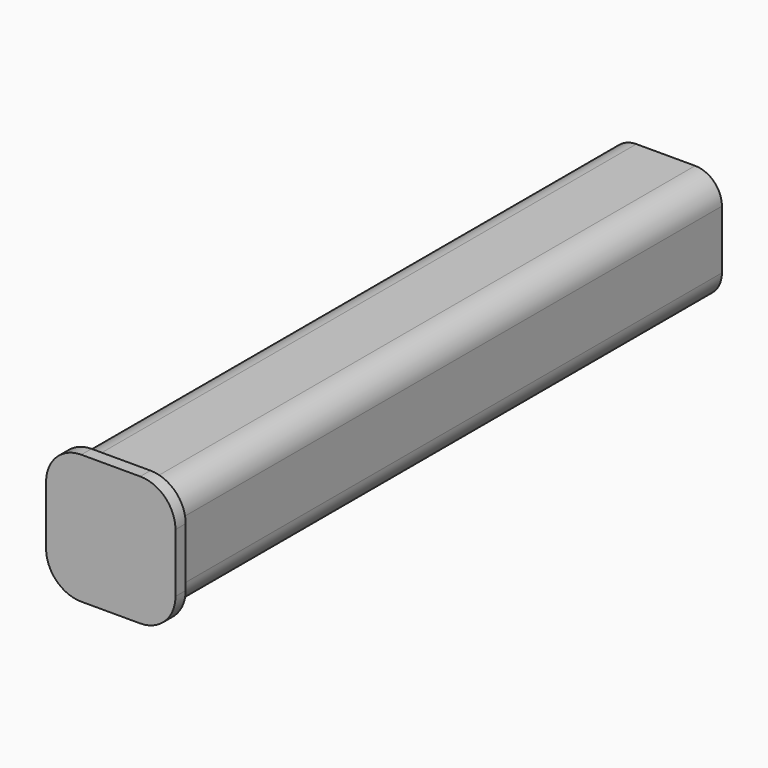
from build123d import *

# Parameters (mm, degrees)
F1_DEPTH = 101.6
F3_DEPTH = 1.905


with BuildPart() as f1:
    # F0 (on Front) → F1 (new body)
    with BuildSketch(Plane.XZ):
        with BuildLine():
            Line((-4.3815, -8.382), (4.3815, -8.382))
            ThreePointArc((4.3815, -8.382), (7.2102806781, -7.2102806781), (8.382, -4.3815))
            Line((8.382, -4.3815), (8.382, 4.3815))
            ThreePointArc((8.382, 4.3815), (7.2102806781, 7.2102806781), (4.3815, 8.382))
            Line((4.3815, 8.382), (-4.3815, 8.382))
            ThreePointArc((-4.3815, 8.382), (-7.2102806781, 7.2102806781), (-8.382, 4.3815))
            Line((-8.382, 4.3815), (-8.382, -4.3815))
            ThreePointArc((-8.382, -4.3815), (-7.2102806781, -7.2102806781), (-4.3815, -8.382))
        make_face()
        with BuildLine():
            Line((-4.572, 5.842), (4.572, 5.842))
            ThreePointArc((4.572, 5.842), (5.4700256121, 5.4700256121), (5.842, 4.572))
            Line((5.842, 4.572), (5.842, -4.572))
            ThreePointArc((5.842, -4.572), (5.4700256121, -5.4700256121), (4.572, -5.842))
            Line((4.572, -5.842), (-4.572, -5.842))
            ThreePointArc((-4.572, -5.842), (-5.4700256121, -5.4700256121), (-5.842, -4.572))
            Line((-5.842, -4.572), (-5.842, 4.572))
            ThreePointArc((-5.842, 4.572), (-5.4700256121, 5.4700256121), (-4.572, 5.842))
        make_face(mode=Mode.SUBTRACT)
    extrude(amount=F1_DEPTH)

    # F2 (on face) → F3 (join)
    with BuildSketch(Plane.XZ.offset(101.6)):
        with BuildLine():
            Line((-4.3942, -9.652), (4.3942, -9.652))
            ThreePointArc((4.3942, -9.652), (8.1120260341, -8.1120260341), (9.652, -4.3942))
            Line((9.652, -4.3942), (9.652, 4.3942))
            ThreePointArc((9.652, 4.3942), (8.1120260341, 8.1120260341), (4.3942, 9.652))
            Line((4.3942, 9.652), (-4.3942, 9.652))
            ThreePointArc((-4.3942, 9.652), (-8.1120260341, 8.1120260341), (-9.652, 4.3942))
            Line((-9.652, 4.3942), (-9.652, -4.3942))
            ThreePointArc((-9.652, -4.3942), (-8.1120260341, -8.1120260341), (-4.3942, -9.652))
        make_face()
        with BuildLine():
            Line((4.3815, -8.382), (-4.3815, -8.382))
            ThreePointArc((-4.3815, -8.382), (-7.2102806781, -7.2102806781), (-8.382, -4.3815))
            Line((-8.382, -4.3815), (-8.382, 4.3815))
            ThreePointArc((-8.382, 4.3815), (-7.2102806781, 7.2102806781), (-4.3815, 8.382))
            Line((-4.3815, 8.382), (4.3815, 8.382))
            ThreePointArc((4.3815, 8.382), (7.2102806781, 7.2102806781), (8.382, 4.3815))
            Line((8.382, 4.3815), (8.382, -4.3815))
            ThreePointArc((8.382, -4.3815), (7.2102806781, -7.2102806781), (4.3815, -8.382))
        make_face(mode=Mode.SUBTRACT)
        with BuildLine():
            ThreePointArc((-8.382, -4.3815), (-7.2102806781, -7.2102806781), (-4.3815, -8.382))
            Line((-4.3815, -8.382), (4.3815, -8.382))
            ThreePointArc((4.3815, -8.382), (7.2102806781, -7.2102806781), (8.382, -4.3815))
            Line((8.382, -4.3815), (8.382, 4.3815))
            ThreePointArc((8.382, 4.3815), (7.2102806781, 7.2102806781), (4.3815, 8.382))
            Line((4.3815, 8.382), (-4.3815, 8.382))
            ThreePointArc((-4.3815, 8.382), (-7.2102806781, 7.2102806781), (-8.382, 4.3815))
            Line((-8.382, 4.3815), (-8.382, -4.3815))
        make_face()
        with BuildLine():
            ThreePointArc((-5.842, 4.572), (-5.4700256121, 5.4700256121), (-4.572, 5.842))
            Line((-4.572, 5.842), (4.572, 5.842))
            ThreePointArc((4.572, 5.842), (5.4700256121, 5.4700256121), (5.842, 4.572))
            Line((5.842, 4.572), (5.842, -4.572))
            ThreePointArc((5.842, -4.572), (5.4700256121, -5.4700256121), (4.572, -5.842))
            Line((4.572, -5.842), (-4.572, -5.842))
            ThreePointArc((-4.572, -5.842), (-5.4700256121, -5.4700256121), (-5.842, -4.572))
            Line((-5.842, -4.572), (-5.842, 4.572))
        make_face(mode=Mode.SUBTRACT)
        with BuildLine():
            Line((4.572, 5.842), (-4.572, 5.842))
            ThreePointArc((-4.572, 5.842), (-5.4700256121, 5.4700256121), (-5.842, 4.572))
            Line((-5.842, 4.572), (-5.842, -4.572))
            ThreePointArc((-5.842, -4.572), (-5.4700256121, -5.4700256121), (-4.572, -5.842))
            Line((-4.572, -5.842), (4.572, -5.842))
            ThreePointArc((4.572, -5.842), (5.4700256121, -5.4700256121), (5.842, -4.572))
            Line((5.842, -4.572), (5.842, 4.572))
            ThreePointArc((5.842, 4.572), (5.4700256121, 5.4700256121), (4.572, 5.842))
        make_face()
    extrude(amount=F3_DEPTH)


solid = f1.part
